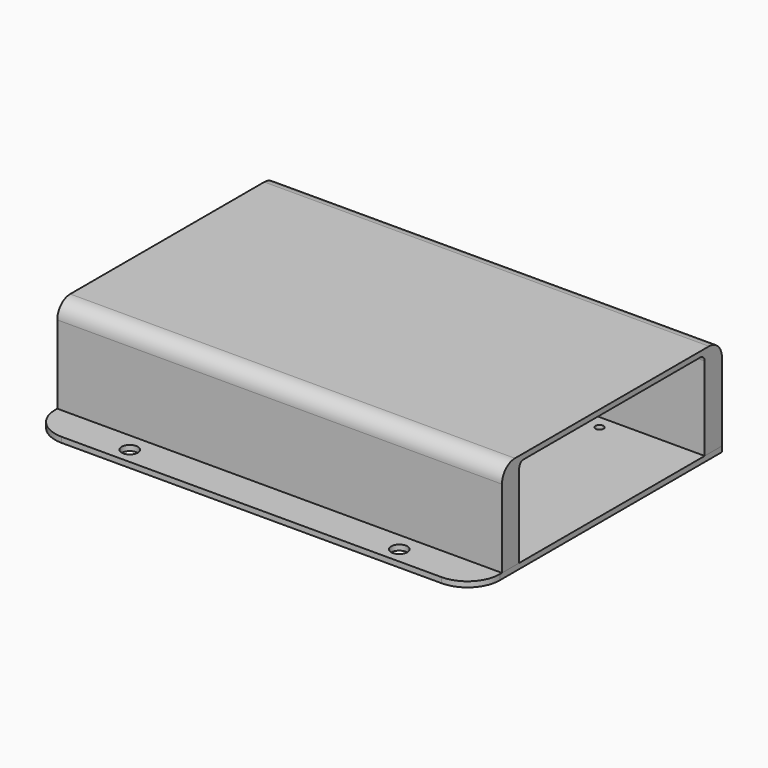
from build123d import *

# Parameters (mm, degrees)
CYLINDER014_R     = 0.8
CYLINDER014_DEPTH = 15
CYLINDER015_R     = 0.8
CYLINDER015_DEPTH = 15
CYLINDER016_R     = 0.8
CYLINDER016_DEPTH = 15
CYLINDER017_R     = 0.8
CYLINDER017_DEPTH = 15
CYLINDER018_R     = 0.8
CYLINDER018_DEPTH = 15
CYLINDER019_R     = 0.8
CYLINDER019_DEPTH = 15
BOX001_W          = 165
BOX001_H          = 86
BOX001_DEPTH      = 35
FILLET_R          = 2
BOX002_W          = 165
BOX002_H          = 102
BOX002_DEPTH      = 35
FILLET001_R       = 6
CYLINDER001_R     = 2
CYLINDER001_DEPTH = 10
CYLINDER002_R     = 1.5
CYLINDER002_DEPTH = 10
CYLINDER003_R     = 1.5
CYLINDER003_DEPTH = 10
CYLINDER004_R     = 1.5
CYLINDER004_DEPTH = 10
CYLINDER005_R     = 1.5
CYLINDER005_DEPTH = 10
CYLINDER006_R     = 3
CYLINDER006_DEPTH = 10
CYLINDER007_R     = 3
CYLINDER007_DEPTH = 10
CYLINDER008_R     = 1.5
CYLINDER008_DEPTH = 10
CYLINDER009_R     = 1.5
CYLINDER009_DEPTH = 10
CYLINDER010_R     = 1.5
CYLINDER010_DEPTH = 10
CYLINDER011_R     = 1.5
CYLINDER011_DEPTH = 10
CYLINDER012_R     = 1.5
CYLINDER012_DEPTH = 10
CYLINDER013_R     = 1.5
CYLINDER013_DEPTH = 10
CYLINDER_R        = 2
CYLINDER_DEPTH    = 10
BOX_W             = 165
BOX_H             = 115
BOX_DEPTH         = 2
FILLET002_R       = 12


with BuildPart() as boxscrew007:
    # Cylinder014 → Cylinder014 (new body)
    with BuildSketch(Plane(origin=(100, 47, 0), x_dir=(1, 0, 0), z_dir=(0, 0, 1))):
        Circle(CYLINDER014_R)
    extrude(amount=CYLINDER014_DEPTH)


with BuildPart() as boxscrew008:
    # Cylinder015 → Cylinder015 (new body)
    with BuildSketch(Plane(origin=(-35, 47, 0), x_dir=(1, 0, 0), z_dir=(0, 0, 1))):
        Circle(CYLINDER015_R)
    extrude(amount=CYLINDER015_DEPTH)


with BuildPart() as boxscrew009:
    # Cylinder016 → Cylinder016 (new body)
    with BuildSketch(Plane(origin=(32.5, 47, 0), x_dir=(1, 0, 0), z_dir=(0, 0, 1))):
        Circle(CYLINDER016_R)
    extrude(amount=CYLINDER016_DEPTH)


with BuildPart() as boxscrew010:
    # Cylinder017 → Cylinder017 (new body)
    with BuildSketch(Plane(origin=(100, -47, 0), x_dir=(1, 0, 0), z_dir=(0, 0, 1))):
        Circle(CYLINDER017_R)
    extrude(amount=CYLINDER017_DEPTH)


with BuildPart() as boxscrew011:
    # Cylinder018 → Cylinder018 (new body)
    with BuildSketch(Plane(origin=(-35, -47, 0), x_dir=(1, 0, 0), z_dir=(0, 0, 1))):
        Circle(CYLINDER018_R)
    extrude(amount=CYLINDER018_DEPTH)


with BuildPart() as fusion001:
    # Cylinder019 → Cylinder019 (new body)
    with BuildSketch(Plane(origin=(32.5, -47, 0), x_dir=(1, 0, 0), z_dir=(0, 0, 1))):
        Circle(CYLINDER019_R)
    extrude(amount=CYLINDER019_DEPTH)

    # Fusion001: union BoxScrew007, BoxScrew008, BoxScrew009, BoxScrew010, BoxScrew011
    add(boxscrew007.part)
    add(boxscrew008.part)
    add(boxscrew009.part)
    add(boxscrew010.part)
    add(boxscrew011.part)


with BuildPart() as fillet_body:
    # Box001 → Box001 (new body)
    with BuildSketch(Plane(origin=(-50, -43, 0), x_dir=(1, 0, 0), z_dir=(0, 0, 1))):
        with Locations((82.5, 43)):
            Rectangle(BOX001_W, BOX001_H)
    extrude(amount=BOX001_DEPTH)

    # Fillet
    fillet_edges = [fillet_body.edges().sort_by_distance(p)[0] for p in [
        (32.5, -43, 35),
        (32.5, 43, 35),
    ]]
    fillet(fillet_edges, radius=FILLET_R)


with BuildPart() as cover:
    # Box002 → Box002 (new body)
    with BuildSketch(Plane(origin=(-50, -51, 2), x_dir=(1, 0, 0), z_dir=(0, 0, 1))):
        with Locations((82.5, 51)):
            Rectangle(BOX002_W, BOX002_H)
    extrude(amount=BOX002_DEPTH)

    # Fillet001
    fillet001_edges = [cover.edges().sort_by_distance(p)[0] for p in [
        (32.5, -51, 37),
        (32.5, 51, 37),
    ]]
    fillet(fillet001_edges, radius=FILLET001_R)

    # Cut: cut Fillet body
    add(fillet_body.part, mode=Mode.SUBTRACT)

    # Cut002: cut Fusion001
    add(fusion001.part, mode=Mode.SUBTRACT)


with BuildPart() as pwrscrew002:
    # Cylinder001 → Cylinder001 (new body)
    with BuildSketch(Plane(origin=(-28, 0, 0), x_dir=(1, 0, 0), z_dir=(0, 0, 1))):
        Circle(CYLINDER001_R)
    extrude(amount=CYLINDER001_DEPTH)


with BuildPart() as computerscrew001:
    # Cylinder002 → Cylinder002 (new body)
    with BuildSketch(Plane(origin=(58, 38, 0), x_dir=(1, 0, 0), z_dir=(0, 0, 1))):
        Circle(CYLINDER002_R)
    extrude(amount=CYLINDER002_DEPTH)


with BuildPart() as computerscrew002:
    # Cylinder003 → Cylinder003 (new body)
    with BuildSketch(Plane(origin=(58, -20, 0), x_dir=(1, 0, 0), z_dir=(0, 0, 1))):
        Circle(CYLINDER003_R)
    extrude(amount=CYLINDER003_DEPTH)


with BuildPart() as computerscrew003:
    # Cylinder004 → Cylinder004 (new body)
    with BuildSketch(Plane(origin=(80, 38, 0), x_dir=(1, 0, 0), z_dir=(0, 0, 1))):
        Circle(CYLINDER004_R)
    extrude(amount=CYLINDER004_DEPTH)


with BuildPart() as computerscrew004:
    # Cylinder005 → Cylinder005 (new body)
    with BuildSketch(Plane(origin=(80, -20, 0), x_dir=(1, 0, 0), z_dir=(0, 0, 1))):
        Circle(CYLINDER005_R)
    extrude(amount=CYLINDER005_DEPTH)


with BuildPart() as mainscrew001:
    # Cylinder006 → Cylinder006 (new body)
    with BuildSketch(Plane(origin=(-17.5, -58, 0), x_dir=(1, 0, 0), z_dir=(0, 0, 1))):
        Circle(CYLINDER006_R)
    extrude(amount=CYLINDER006_DEPTH)


with BuildPart() as mainscrew002:
    # Cylinder007 → Cylinder007 (new body)
    with BuildSketch(Plane(origin=(82.5, -58, 0), x_dir=(1, 0, 0), z_dir=(0, 0, 1))):
        Circle(CYLINDER007_R)
    extrude(amount=CYLINDER007_DEPTH)


with BuildPart() as boxscrew001:
    # Cylinder008 → Cylinder008 (new body)
    with BuildSketch(Plane(origin=(100, 47, 0), x_dir=(1, 0, 0), z_dir=(0, 0, 1))):
        Circle(CYLINDER008_R)
    extrude(amount=CYLINDER008_DEPTH)


with BuildPart() as boxscrew002:
    # Cylinder009 → Cylinder009 (new body)
    with BuildSketch(Plane(origin=(-35, 47, 0), x_dir=(1, 0, 0), z_dir=(0, 0, 1))):
        Circle(CYLINDER009_R)
    extrude(amount=CYLINDER009_DEPTH)


with BuildPart() as boxscrew003:
    # Cylinder010 → Cylinder010 (new body)
    with BuildSketch(Plane(origin=(32.5, 47, 0), x_dir=(1, 0, 0), z_dir=(0, 0, 1))):
        Circle(CYLINDER010_R)
    extrude(amount=CYLINDER010_DEPTH)


with BuildPart() as boxscrew004:
    # Cylinder011 → Cylinder011 (new body)
    with BuildSketch(Plane(origin=(100, -47, 0), x_dir=(1, 0, 0), z_dir=(0, 0, 1))):
        Circle(CYLINDER011_R)
    extrude(amount=CYLINDER011_DEPTH)


with BuildPart() as boxscrew005:
    # Cylinder012 → Cylinder012 (new body)
    with BuildSketch(Plane(origin=(-35, -47, 0), x_dir=(1, 0, 0), z_dir=(0, 0, 1))):
        Circle(CYLINDER012_R)
    extrude(amount=CYLINDER012_DEPTH)


with BuildPart() as boxscrew006:
    # Cylinder013 → Cylinder013 (new body)
    with BuildSketch(Plane(origin=(32.5, -47, 0), x_dir=(1, 0, 0), z_dir=(0, 0, 1))):
        Circle(CYLINDER013_R)
    extrude(amount=CYLINDER013_DEPTH)


with BuildPart() as obj1:
    # Cylinder → Cylinder (new body)
    with BuildSketch(Plane(origin=(28, 0, 0), x_dir=(1, 0, 0), z_dir=(0, 0, 1))):
        Circle(CYLINDER_R)
    extrude(amount=CYLINDER_DEPTH)

    # Fusion: union PwrScrew002, ComputerScrew001, ComputerScrew002, ComputerScrew003, ComputerScrew004, MainScrew001, MainScrew002, BoxScrew001, BoxScrew002, BoxScrew003, BoxScrew004, BoxScrew005, BoxScrew006
    add(pwrscrew002.part)
    add(computerscrew001.part)
    add(computerscrew002.part)
    add(computerscrew003.part)
    add(computerscrew004.part)
    add(mainscrew001.part)
    add(mainscrew002.part)
    add(boxscrew001.part)
    add(boxscrew002.part)
    add(boxscrew003.part)
    add(boxscrew004.part)
    add(boxscrew005.part)
    add(boxscrew006.part)


with BuildPart() as base001:
    # Box → Box (new body)
    with BuildSketch(Plane(origin=(-50, -64, 0), x_dir=(1, 0, 0), z_dir=(0, 0, 1))):
        with Locations((82.5, 57.5)):
            Rectangle(BOX_W, BOX_H)
    extrude(amount=BOX_DEPTH)

    # Cut001: cut obj1
    add(obj1.part, mode=Mode.SUBTRACT)

    # Fillet002
    fillet002_edges = [base001.edges().sort_by_distance(p)[0] for p in [
        (-50, -64, 1),
        (115, -64, 1),
    ]]
    fillet(fillet002_edges, radius=FILLET002_R)


solid = Compound([cover.part, base001.part])
